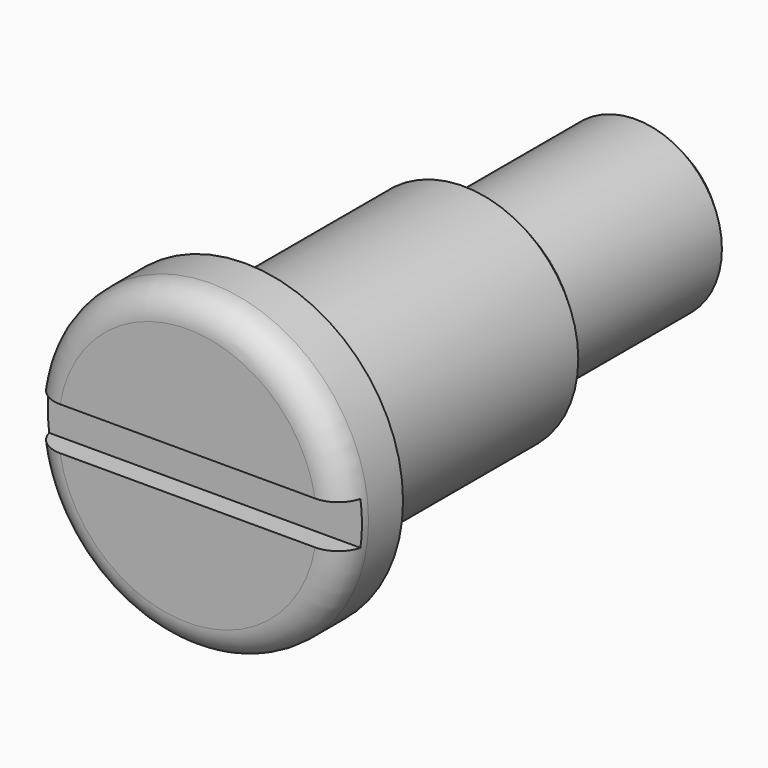
from build123d import *

# Parameters (mm, degrees)
F0_R     = 11
F1_DEPTH = 5
F2_R     = 2
F3_R     = 8
F3_R_2   = 6
F4_DEPTH = 20
F5_DEPTH = 35
F6_SIZE2 = 1
F6_SIZE  = 1
F7_W     = 1.5
F7_H     = 3
F8_DEPTH = 12.5


with BuildPart() as f1:
    # F0 (on Front) → F1 (new body)
    with BuildSketch(Plane.XZ):
        Circle(F0_R)
    extrude(amount=F1_DEPTH)

    # F2
    f2_edges = [f1.edges().sort_by_distance(p)[0] for p in [
        (-11, -5, 0),
    ]]
    fillet(f2_edges, radius=F2_R)

    # F3 (on Front) → F4 (join)
    with BuildSketch(Plane.XZ):
        Circle(F3_R)
        Circle(F3_R_2, mode=Mode.SUBTRACT)
    extrude(amount=-F4_DEPTH)

    # F5 (add): a face of the model
    f5_faces = [f1.faces().sort_by_distance(p)[0] for p in [
        (0, 0, 0),
    ]]
    extrude(f5_faces, amount=F5_DEPTH)

    # F6
    f6_edges = [f1.edges().sort_by_distance(p)[0] for p in [
        (-6, 35, 0),
        (-8, 20, 0),
    ]]
    chamfer(f6_edges, length=F6_SIZE, length2=F6_SIZE2)

    # F7 (on Right) → F8 (cut, symmetric)
    with BuildSketch(Plane.YZ):
        with Locations((-4.25, 0)):
            Rectangle(F7_W, F7_H)
    extrude(amount=F8_DEPTH, both=True, mode=Mode.SUBTRACT)


solid = f1.part
